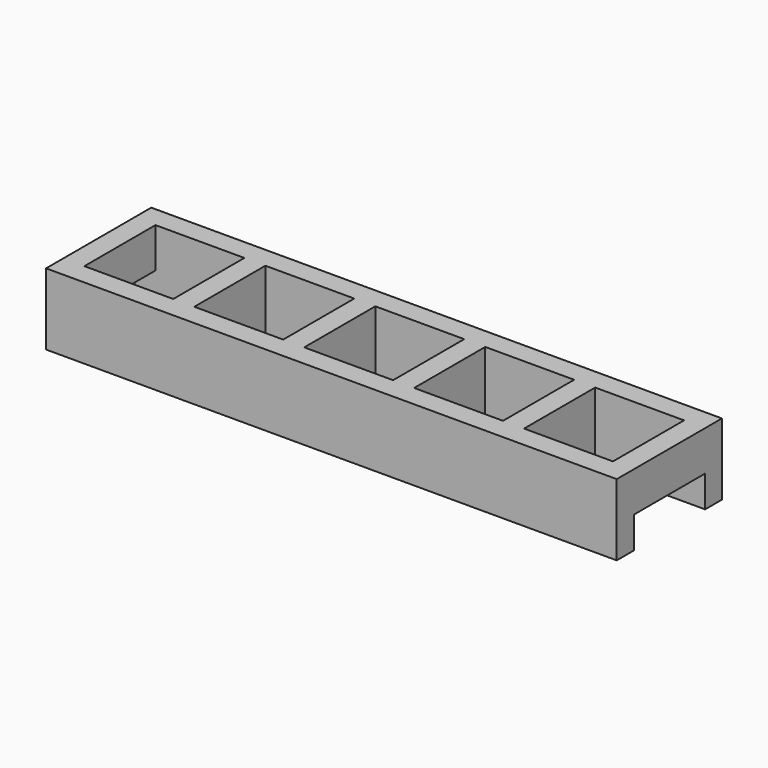
from build123d import *

# Parameters (mm, degrees)
SKETCH001_W      = 8.45
SKETCH001_H      = 8.45
EXTRUDE001_DEPTH = 3
SKETCH_W         = 54.25
SKETCH_H         = 12.5
SKETCH_W_2       = 8.45
SKETCH_H_2       = 8.45
EXTRUDE_DEPTH    = 6.8


with BuildPart() as extrude001:
    # Sketch001 → Extrude001 (new body)
    with BuildSketch(Plane.XY):
        with Locations((-45.5, 0)):
            Rectangle(SKETCH001_W, SKETCH001_H)
        with Locations((8, 0)):
            Rectangle(SKETCH001_W, SKETCH001_H)
    extrude(amount=EXTRUDE001_DEPTH)


with BuildPart() as cut:
    # Sketch → Extrude (new body)
    with BuildSketch(Plane.XY):
        with Locations((-20.9, -0.025)):
            Rectangle(SKETCH_W, SKETCH_H)
        Rectangle(SKETCH_W_2, SKETCH_H_2, mode=Mode.SUBTRACT)
        with Locations((-10.45, 0)):
            Rectangle(SKETCH_W_2, SKETCH_H_2, mode=Mode.SUBTRACT)
        with Locations((-20.9, 0)):
            Rectangle(SKETCH_W_2, SKETCH_H_2, mode=Mode.SUBTRACT)
        with Locations((-31.35, 0)):
            Rectangle(SKETCH_W_2, SKETCH_H_2, mode=Mode.SUBTRACT)
        with Locations((-41.8, 0)):
            Rectangle(SKETCH_W_2, SKETCH_H_2, mode=Mode.SUBTRACT)
    extrude(amount=EXTRUDE_DEPTH)

    # Cut: cut Extrude001
    add(extrude001.part, mode=Mode.SUBTRACT)


solid = cut.part
